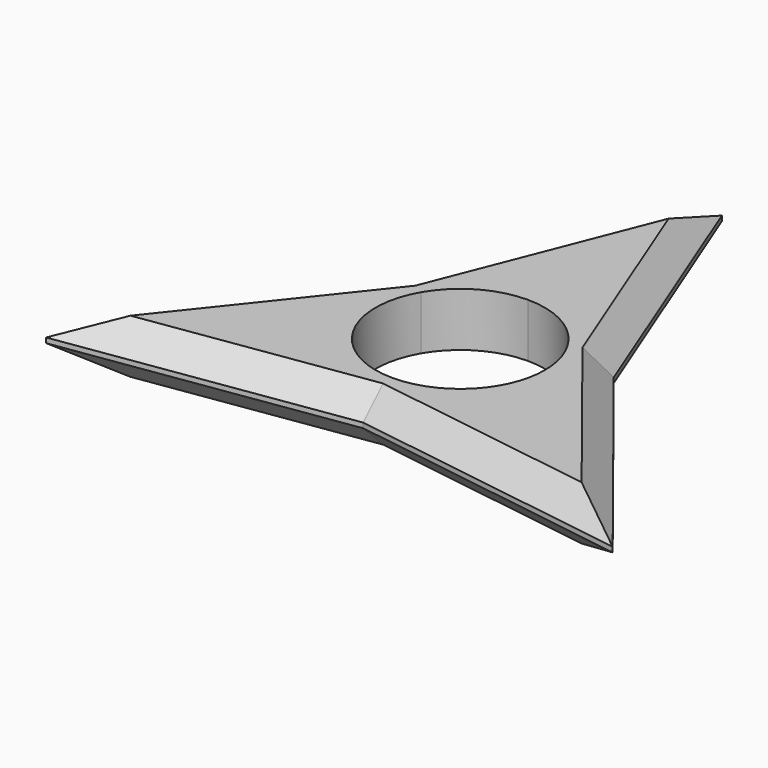
from build123d import *

# Parameters (mm, degrees)
F1_DEPTH = 7
F2_SIZE  = 3.175
F3_DEPTH = 7.001


with BuildPart() as f1:
    # F0 (on Top) → F1 (new body)
    with BuildSketch(Plane.XY):
        with BuildLine():
            Line((13.6507254272, 7.88125), (0, 42.5250102))
            Line((0, 42.5250102), (0, 15.7625))
            ThreePointArc((0, 15.7625), (7.88125, 13.6507254272), (13.6507254272, 7.88125))
        make_face()
        with BuildLine():
            Line((0, 15.7625), (0, 42.5250102))
            Line((0, 42.5250102), (-13.6507254272, 7.88125))
            ThreePointArc((-13.6507254272, 7.88125), (-7.88125, 13.6507254272), (0, 15.7625))
        make_face()
        with BuildLine():
            ThreePointArc((-13.6507254272, -7.88125), (-15.7625, 0), (-13.6507254272, 7.88125))
            Line((-13.6507254272, 7.88125), (-36.8277391294, -21.2625051))
            Line((-36.8277391294, -21.2625051), (-13.6507254272, -7.88125))
        make_face()
        with BuildLine():
            Line((-36.8277391294, -21.2625051), (0, -15.7625))
            ThreePointArc((0, -15.7625), (-7.88125, -13.6507254272), (-13.6507254272, -7.88125))
            Line((-13.6507254272, -7.88125), (-36.8277391294, -21.2625051))
        make_face()
        with BuildLine():
            Line((0, -15.7625), (36.8277391294, -21.2625051))
            Line((36.8277391294, -21.2625051), (13.6507254272, -7.88125))
            ThreePointArc((13.6507254272, -7.88125), (7.88125, -13.6507254272), (0, -15.7625))
        make_face()
        with BuildLine():
            Line((13.6507254272, -7.88125), (36.8277391294, -21.2625051))
            Line((36.8277391294, -21.2625051), (13.6507254272, 7.88125))
            ThreePointArc((13.6507254272, 7.88125), (15.2254058369, 4.0796351984), (15.7625, 0))
            ThreePointArc((15.7625, 0), (15.2254058369, -4.0796351984), (13.6507254272, -7.88125))
        make_face()
        with BuildLine():
            Line((0, 11), (0, 15.7625))
            ThreePointArc((0, 15.7625), (-7.88125, 13.6507254272), (-13.6507254272, 7.88125))
            Line((-13.6507254272, 7.88125), (-9.5262794416, 5.5))
            ThreePointArc((-9.5262794416, 5.5), (-5.5, 9.5262794416), (0, 11))
        make_face()
        with BuildLine():
            Line((9.5262794416, 5.5), (13.6507254272, 7.88125))
            ThreePointArc((13.6507254272, 7.88125), (7.88125, 13.6507254272), (0, 15.7625))
            Line((0, 15.7625), (0, 11))
            ThreePointArc((0, 11), (5.5, 9.5262794416), (9.5262794416, 5.5))
        make_face()
        with BuildLine():
            ThreePointArc((15.7625, 0), (15.2254058369, 4.0796351984), (13.6507254272, 7.88125))
            Line((13.6507254272, 7.88125), (9.5262794416, 5.5))
            ThreePointArc((9.5262794416, 5.5), (10.6251840892, 2.8470094961), (11, 0))
            ThreePointArc((11, 0), (10.6251840892, -2.8470094961), (9.5262794416, -5.5))
            Line((9.5262794416, -5.5), (13.6507254272, -7.88125))
            ThreePointArc((13.6507254272, -7.88125), (15.2254058369, -4.0796351984), (15.7625, 0))
        make_face()
        with BuildLine():
            ThreePointArc((0, -15.7625), (7.88125, -13.6507254272), (13.6507254272, -7.88125))
            Line((13.6507254272, -7.88125), (9.5262794416, -5.5))
            ThreePointArc((9.5262794416, -5.5), (5.5, -9.5262794416), (0, -11))
            Line((0, -11), (0, -15.7625))
        make_face()
        with BuildLine():
            ThreePointArc((-13.6507254272, -7.88125), (-7.88125, -13.6507254272), (0, -15.7625))
            Line((0, -15.7625), (0, -11))
            ThreePointArc((0, -11), (-5.5, -9.5262794416), (-9.5262794416, -5.5))
            Line((-9.5262794416, -5.5), (-13.6507254272, -7.88125))
        make_face()
        with BuildLine():
            Line((-9.5262794416, 5.5), (-13.6507254272, 7.88125))
            ThreePointArc((-13.6507254272, 7.88125), (-15.7625, 0), (-13.6507254272, -7.88125))
            Line((-13.6507254272, -7.88125), (-9.5262794416, -5.5))
            ThreePointArc((-9.5262794416, -5.5), (-11, 0), (-9.5262794416, 5.5))
        make_face()
        with BuildLine():
            Line((0, 0), (-9.5262794416, 5.5))
            ThreePointArc((-9.5262794416, 5.5), (-11, 0), (-9.5262794416, -5.5))
            Line((-9.5262794416, -5.5), (0, 0))
        make_face()
        with BuildLine():
            ThreePointArc((-9.5262794416, -5.5), (-5.5, -9.5262794416), (0, -11))
            Line((0, -11), (0, 0))
            Line((0, 0), (-9.5262794416, -5.5))
        make_face()
        with BuildLine():
            ThreePointArc((0, -11), (5.5, -9.5262794416), (9.5262794416, -5.5))
            Line((9.5262794416, -5.5), (0, 0))
            Line((0, 0), (0, -11))
        make_face()
        with BuildLine():
            ThreePointArc((11, 0), (10.6251840892, 2.8470094961), (9.5262794416, 5.5))
            Line((9.5262794416, 5.5), (0, 0))
            Line((0, 0), (9.5262794416, -5.5))
            ThreePointArc((9.5262794416, -5.5), (10.6251840892, -2.8470094961), (11, 0))
        make_face()
        with BuildLine():
            Line((0, 0), (9.5262794416, 5.5))
            ThreePointArc((9.5262794416, 5.5), (5.5, 9.5262794416), (0, 11))
            Line((0, 11), (0, 0))
        make_face()
        with BuildLine():
            Line((0, 0), (0, 11))
            ThreePointArc((0, 11), (-5.5, 9.5262794416), (-9.5262794416, 5.5))
            Line((-9.5262794416, 5.5), (0, 0))
        make_face()
    extrude(amount=F1_DEPTH)

    # F2
    f2_edges = [f1.edges().sort_by_distance(p)[0] for p in [
        (-18.41387, -18.512503, 7),
        (-6.825363, 25.20313, 7),
        (-25.239232, -6.690628, 7),
        (18.41387, -18.512503, 7),
        (25.239232, -6.690628, 7),
        (6.825363, 25.20313, 7),
        (-6.825363, 25.20313, 0),
        (-25.239232, -6.690628, 0),
        (-18.41387, -18.512503, 0),
        (18.41387, -18.512503, 0),
        (25.239232, -6.690628, 0),
        (6.825363, 25.20313, 0),
    ]]
    chamfer(f2_edges, length=F2_SIZE)

    # F0 (on Top) → F3 (cut, through all)
    with BuildSketch(Plane.XY):
        with BuildLine():
            ThreePointArc((0, -11), (5.5, -9.5262794416), (9.5262794416, -5.5))
            Line((9.5262794416, -5.5), (0, 0))
            Line((0, 0), (0, -11))
        make_face()
        with BuildLine():
            ThreePointArc((-9.5262794416, -5.5), (-5.5, -9.5262794416), (0, -11))
            Line((0, -11), (0, 0))
            Line((0, 0), (-9.5262794416, -5.5))
        make_face()
        with BuildLine():
            Line((0, 0), (-9.5262794416, 5.5))
            ThreePointArc((-9.5262794416, 5.5), (-11, 0), (-9.5262794416, -5.5))
            Line((-9.5262794416, -5.5), (0, 0))
        make_face()
        with BuildLine():
            Line((0, 0), (0, 11))
            ThreePointArc((0, 11), (-5.5, 9.5262794416), (-9.5262794416, 5.5))
            Line((-9.5262794416, 5.5), (0, 0))
        make_face()
        with BuildLine():
            Line((0, 0), (9.5262794416, 5.5))
            ThreePointArc((9.5262794416, 5.5), (5.5, 9.5262794416), (0, 11))
            Line((0, 11), (0, 0))
        make_face()
        with BuildLine():
            ThreePointArc((11, 0), (10.6251840892, 2.8470094961), (9.5262794416, 5.5))
            Line((9.5262794416, 5.5), (0, 0))
            Line((0, 0), (9.5262794416, -5.5))
            ThreePointArc((9.5262794416, -5.5), (10.6251840892, -2.8470094961), (11, 0))
        make_face()
    extrude(amount=F3_DEPTH, mode=Mode.SUBTRACT)


solid = f1.part
